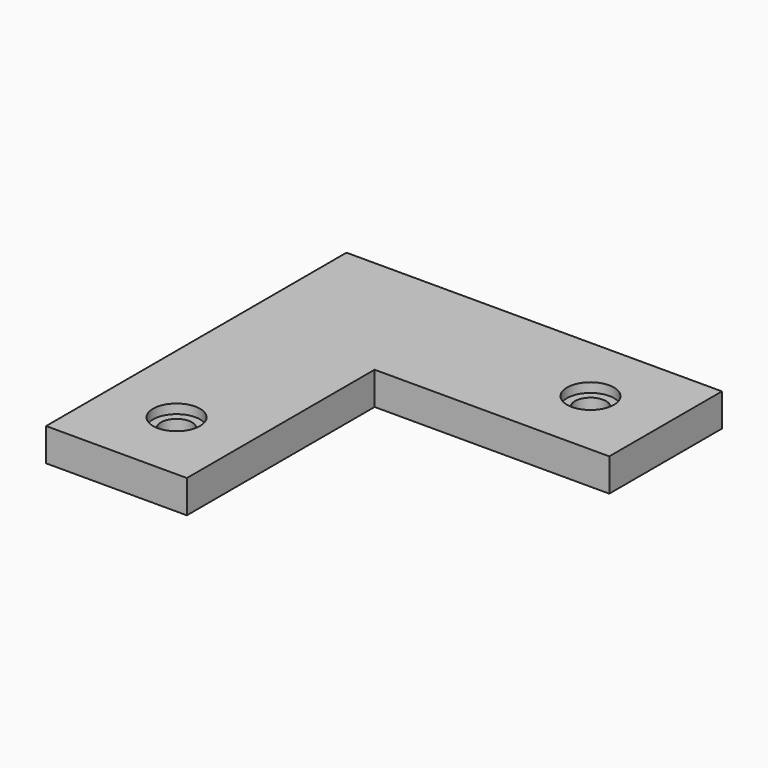
from build123d import *

# Parameters (mm, degrees)
F0_W     = 25
F0_H     = 15
F1_DEPTH = 3.5
F2_R     = 1.65
F3_DEPTH = 3.5
F2_R_2   = 2.5
F4_DEPTH = 1


with BuildPart() as f1:
    # F0 (on Top) → F1 (new body)
    with BuildSketch(Plane.XY):
        Polygon((7.5, 20), (-7.5, 20), (-7.5, -20), (7.5, -20), (7.5, 5), align=None)
        with Locations((20, 12.5)):
            Rectangle(F0_W, F0_H)
    extrude(amount=F1_DEPTH)

    # F2 (on face) → F3 (cut, through all)
    with BuildSketch(Plane.XY.offset(3.5)):
        with Locations((0, -12)):
            Circle(F2_R)
        with Locations((24.5, 12.5)):
            Circle(F2_R)
    extrude(amount=-F3_DEPTH, mode=Mode.SUBTRACT)

    # F2 (on face) → F4 (cut)
    with BuildSketch(Plane.XY.offset(3.5)):
        with Locations((0, -12)):
            Circle(F2_R_2)
        with Locations((0, -12)):
            Circle(F2_R, mode=Mode.SUBTRACT)
        with Locations((24.5, 12.5)):
            Circle(F2_R_2)
        with Locations((24.5, 12.5)):
            Circle(F2_R, mode=Mode.SUBTRACT)
    extrude(amount=-F4_DEPTH, mode=Mode.SUBTRACT)


solid = f1.part
